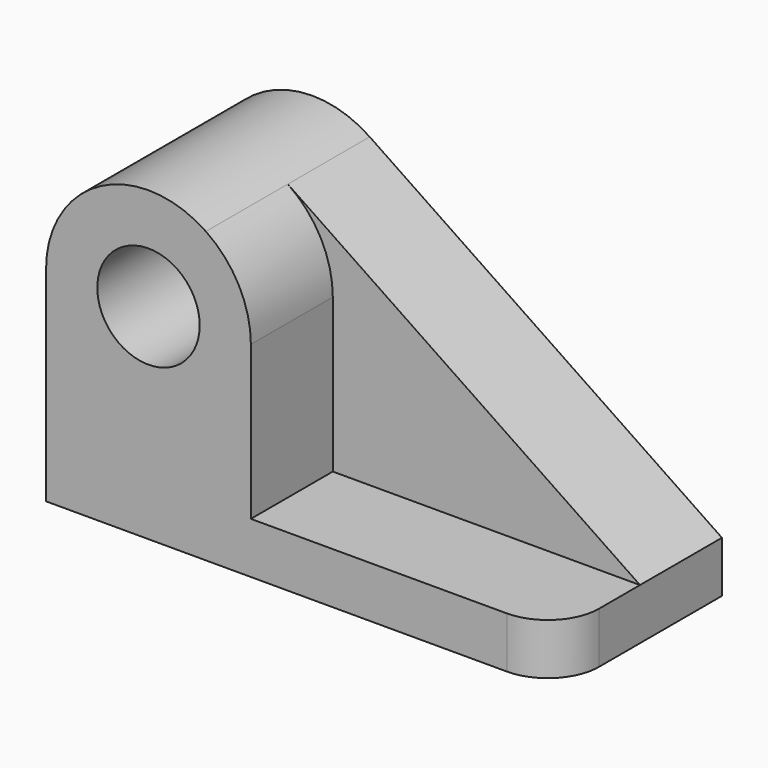
from build123d import *

# Parameters (mm, degrees)
F0_R     = 12.7
F1_DEPTH = 25.4
F2_R     = 12.7
F3_DEPTH = 25.4
F4_R     = 12.7


with BuildPart() as f1:
    # F0 (on Front) → F1 (new body)
    with BuildSketch(Plane.XZ):
        with BuildLine():
            Line((13.8463166714, -10.7009865671), (-73.5158102005, 48.4333417746))
            ThreePointArc((-73.5158102005, 48.4333417746), (-99.6599426603, 49.8356127458), (-113.1536833286, 27.3990134329))
            Line((-113.1536833286, 27.3990134329), (-113.1536833286, -23.4009865671))
            Line((-113.1536833286, -23.4009865671), (13.8463166714, -23.4009865671))
            Line((13.8463166714, -23.4009865671), (13.8463166714, -10.7009865671))
        make_face()
        with Locations((-87.7536833286, 27.3990134329)):
            Circle(F0_R, mode=Mode.SUBTRACT)
    extrude(amount=F1_DEPTH)

    # F2 (on face) → F3 (join)
    with BuildSketch(Plane.XZ.offset(25.4)):
        with BuildLine():
            Line((-62.3536833286, -10.7009865671), (-62.3536833286, 27.3990134329))
            ThreePointArc((-62.3536833286, 27.3990134329), (-65.3170840157, 39.3052727645), (-73.5158102005, 48.4333417746))
            ThreePointArc((-73.5158102005, 48.4333417746), (-99.6599426603, 49.8356127458), (-113.1536833286, 27.3990134329))
            Line((-113.1536833286, 27.3990134329), (-113.1536833286, -10.7009865671))
            Line((-113.1536833286, -10.7009865671), (-113.1536833286, -23.4009865671))
            Line((-113.1536833286, -23.4009865671), (13.8463166714, -23.4009865671))
            Line((13.8463166714, -23.4009865671), (13.8463166714, -10.7009865671))
            Line((13.8463166714, -10.7009865671), (-62.3536833286, -10.7009865671))
        make_face()
        with Locations((-87.7536833286, 27.3990134329)):
            Circle(F2_R, mode=Mode.SUBTRACT)
    extrude(amount=F3_DEPTH)

    # F4
    f4_edges = [f1.edges().sort_by_distance(p)[0] for p in [
        (13.846317, -50.8, -17.050987),
    ]]
    fillet(f4_edges, radius=F4_R)


solid = f1.part
